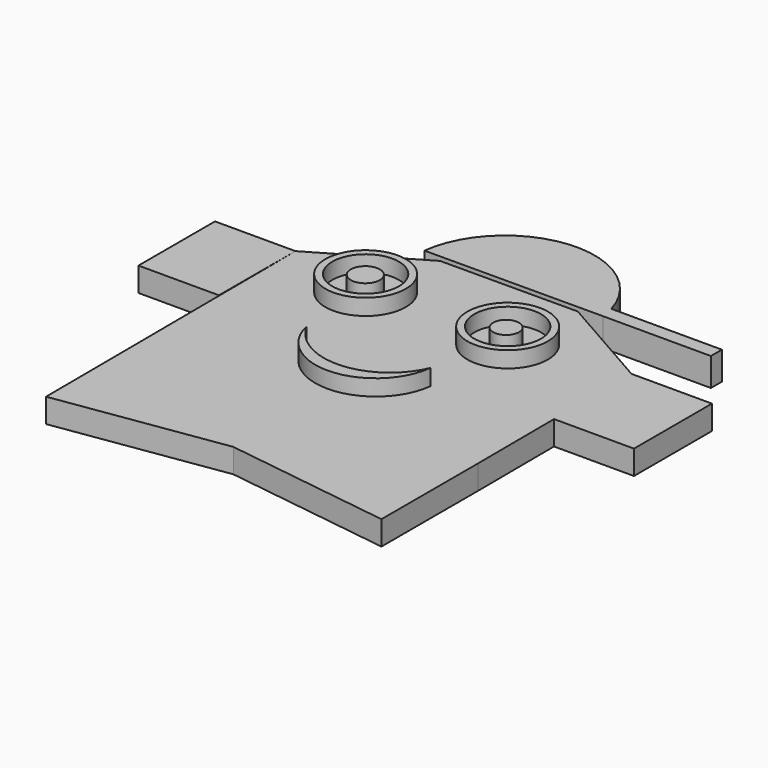
from build123d import *

# Parameters (mm, degrees)
F1_DEPTH = 7.62
F0_W     = 25.4
F0_H     = 30.1927982898
F3_R     = 4.0575582534
F4_DEPTH = 5.08
F5_R     = 4.5826589952
F6_DEPTH = 5.08
F2_R     = 12.7
F2_R_2   = 10.5283
F7_DEPTH = 5.08
F8_W     = 33.9898206294
F8_H     = 4.3518617749
F9_DEPTH = 8.89


with BuildPart() as f1:
    # F0 (on Top) → F1 (new body)
    with BuildSketch(Plane.XY):
        Polygon((52.9576862357, -30.1927982898), (0.3311127876, -60.9591007506), (52.9576862357, -68.2927982898), align=None)
        Polygon((78.0265734481, 30.7663024608), (52.6265734481, 30.7663024608), (52.793687399, 0), (78.0265734481, 0), align=None)
        Polygon((0.3311127876, -60.9591007506), (-52.6265734481, -30.7663024608), (-52.4196279559, -68.86574043), align=None)
        Polygon((-0.3311127876, 60.9591007506), (-52.9576862357, 30.1927982898), (-52.6265734481, -30.7663024608), (0.3311127876, -60.9591007506), (52.9576862357, -30.1927982898), (52.793687399, 0), (52.6265734481, 0), (52.6265734481, 30.7663024608), align=None)
        Polygon((52.793687399, 0), (52.6265734481, 30.7663024608), (52.6265734481, 0), align=None)
    extrude(amount=F1_DEPTH)

    # F3 (on face) → F4 (join)
    with BuildSketch(Plane.XY.offset(7.62)):
        with Locations((19.1078484058, 23.2041683048)):
            Circle(F3_R)
    extrude(amount=F4_DEPTH)

    # F5 (on face) → F6 (join)
    with BuildSketch(Plane.XY.offset(7.62)):
        with Locations((-25.5514662713, 23.4908163548)):
            Circle(F5_R)
    extrude(amount=F6_DEPTH)

    # F2 (on face) → F7 (join)
    with BuildSketch(Plane.XY.offset(7.62)):
        with Locations((-25.7504637512, 23.8569705008)):
            Circle(F2_R)
        with Locations((-25.7504637512, 23.8569705008)):
            Circle(F2_R_2, mode=Mode.SUBTRACT)
        with Locations((19.0776889999, 23.8569705008)):
            Circle(F2_R)
        with Locations((19.0776889999, 23.8569705008)):
            Circle(F2_R_2, mode=Mode.SUBTRACT)
        with BuildLine():
            ThreePointArc((18.0530462825, -5.3453690513), (-0.210471102, -18.0923947301), (-19.6026036841, -7.1384947474))
            ThreePointArc((-19.6026036841, -7.1384947474), (-0.0135704098, -22.2273104033), (18.0530462825, -5.3453690513))
        make_face()
    extrude(amount=F7_DEPTH)

    # F8 (on Top) → F9 (join)
    with BuildSketch(Plane.XY):
        with Locations((46.4924927801, 50.6991408765)):
            Rectangle(F8_W, F8_H)
        with BuildLine():
            ThreePointArc((28.5875461377, 52.875071764), (29.1279584343, 50.7169980069), (29.4975824654, 48.5232099891))
            Line((29.4975824654, 48.5232099891), (29.4975824654, 52.875071764))
            Line((29.4975824654, 52.875071764), (28.5875461377, 52.875071764))
        make_face()
        with BuildLine():
            Line((-26.7930161208, 48.3558252454), (29.4975824654, 48.5232099891))
            ThreePointArc((29.4975824654, 48.5232099891), (29.1279584343, 50.7169980069), (28.5875461377, 52.875071764))
            ThreePointArc((28.5875461377, 52.875071764), (-0.9442997447, 73.1826820121), (-26.7930161208, 48.3558252454))
        make_face()
    extrude(amount=F9_DEPTH)


with BuildPart() as f1b:
    # F0 (on Top) → F1, piece 2 (new body)
    with BuildSketch(Plane.XY):
        with Locations((-65.6576862357, 15.0963991449)):
            Rectangle(F0_W, F0_H)
    extrude(amount=F1_DEPTH)


solid = Compound([f1.part, f1b.part])
